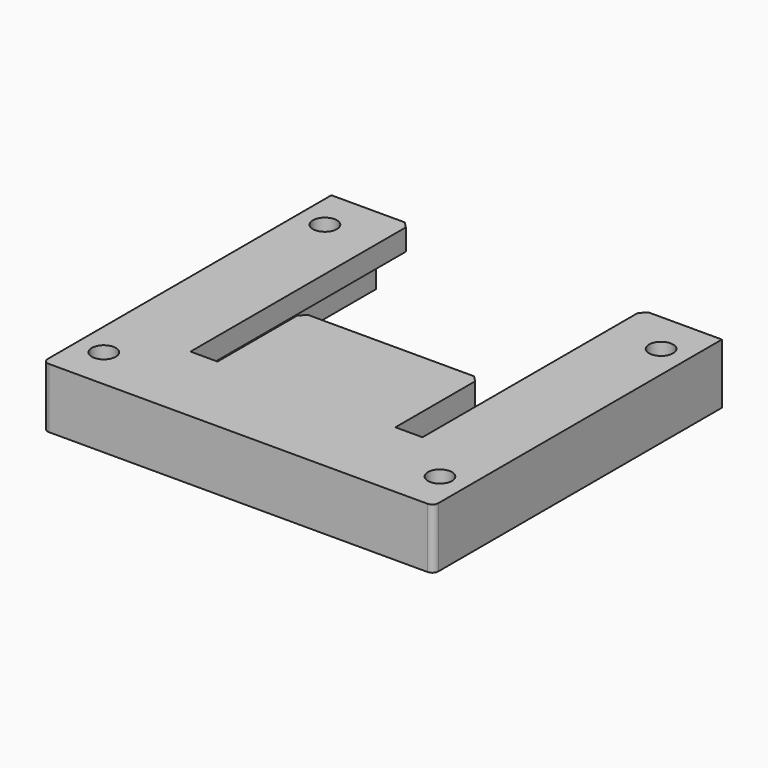
from build123d import *

# Parameters (mm, degrees)
SKETCH006_W     = 65
SKETCH006_H     = 60
PAD003_DEPTH    = 10
POCKET004_DEPTH = 10.001
POCKET005_DEPTH = 6.43
SKETCH009_W     = 1.05
SKETCH009_H     = 8.7
POCKET006_DEPTH = 15
SKETCH010_W     = 20
SKETCH010_H     = 26.8
POCKET007_DEPTH = 8.7
SKETCH011_W     = 2
SKETCH011_H     = 1.05
POCKET008_DEPTH = 8.7
SKETCH012_R     = 2
POCKET009_DEPTH = 10.001
CHAMFER_SIZE    = 1
CHAMFER001_SIZE = 1
CHAMFER002_SIZE = 2
FILLET002_R     = 1


with BuildPart() as part:
    # Sketch006 → Pad003 (new body)
    with BuildSketch(Plane.XY):
        Rectangle(SKETCH006_W, SKETCH006_H)
    extrude(amount=PAD003_DEPTH)

    # Sketch007 → Pocket004 (cut, through all)
    with BuildSketch(Plane.XY):
        Polygon((-19.3, 30), (-19.3, -15.8), (-14.8, -15.8), (-14.8, 1.8), (14.8, 1.8), (14.8, -15.8), (19.3, -15.8), (19.3, 30), align=None)
    extrude(amount=POCKET004_DEPTH, mode=Mode.SUBTRACT)

    # Sketch008 → Pocket005 (cut)
    with BuildSketch(Plane.XY):
        Polygon((-23.45, 30), (23.45, 30), (23.45, -15.8), (14.8, -15.8), (14.8, 1.8), (-14.8, 1.8), (-14.8, -15.8), (-23.45, -15.8), align=None)
    extrude(amount=POCKET005_DEPTH, mode=Mode.SUBTRACT)

    # Sketch009 (on DatumPlane) → Pocket006 (cut)
    with BuildSketch(Plane.XZ.offset(-1.8)):
        with Locations((-12, 4.35)):
            Rectangle(SKETCH009_W, SKETCH009_H)
        with Locations((12, 4.35)):
            Rectangle(SKETCH009_W, SKETCH009_H)
    extrude(amount=POCKET006_DEPTH, mode=Mode.SUBTRACT)

    # Sketch010 → Pocket007 (cut)
    with BuildSketch(Plane.XY):
        with Locations((0, -14.4)):
            Rectangle(SKETCH010_W, SKETCH010_H)
    extrude(amount=POCKET007_DEPTH, mode=Mode.SUBTRACT)

    # Sketch011 → Pocket008 (cut)
    with BuildSketch(Plane.XY):
        with Locations((-11, -3.525)):
            Rectangle(SKETCH011_W, SKETCH011_H)
        with Locations((11, -3.525)):
            Rectangle(SKETCH011_W, SKETCH011_H)
    extrude(amount=POCKET008_DEPTH, mode=Mode.SUBTRACT)

    # Sketch012 → Pocket009 (cut, through all)
    with BuildSketch(Plane.XY):
        with Locations((-27.975, 23)):
            Circle(SKETCH012_R)
        with Locations((27.975, 23)):
            Circle(SKETCH012_R)
        with Locations((27.975, -23)):
            Circle(SKETCH012_R)
        with Locations((-27.975, -23)):
            Circle(SKETCH012_R)
    extrude(amount=POCKET009_DEPTH, mode=Mode.SUBTRACT)

    # Chamfer
    chamfer_edges = [part.edges().sort_by_distance(p)[0] for p in [
        (19.3, 30, 8.215),
        (-19.3, 30, 8.215),
    ]]
    chamfer(chamfer_edges, length=CHAMFER_SIZE)

    # Chamfer001
    chamfer001_edges = [part.edges().sort_by_distance(p)[0] for p in [
        (14.8, 1.8, 8.215),
        (14.8, 1.8, 3.215),
        (-14.8, 1.8, 3.215),
        (-14.8, 1.8, 8.215),
    ]]
    chamfer(chamfer001_edges, length=CHAMFER001_SIZE)

    # Chamfer002
    chamfer002_edges = [part.edges().sort_by_distance(p)[0] for p in [
        (23.45, 30, 3.215),
        (-23.45, 30, 3.215),
    ]]
    chamfer(chamfer002_edges, length=CHAMFER002_SIZE)

    # Fillet002
    fillet002_edges = [part.edges().sort_by_distance(p)[0] for p in [
        (32.5, -30, 5),
        (-32.5, -30, 5),
    ]]
    fillet(fillet002_edges, radius=FILLET002_R)


solid = part.part
